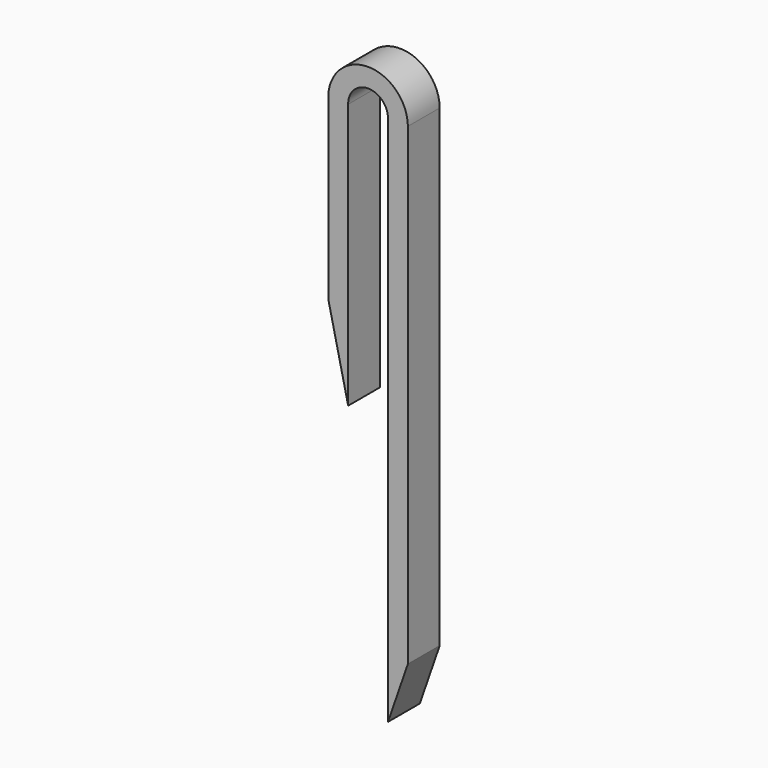
from build123d import *

# Parameters (mm, degrees)
F1_DEPTH = 3


with BuildPart() as f1:
    # F0 (on Front) → F1 (new body)
    with BuildSketch(Plane.XZ):
        with BuildLine():
            Line((1.5, 0), (1.5, -40))
            Line((1.5, -40), (3, -35.662841))
            Line((3, -35.662841), (3, -0.053545))
            Line((3, -0.053545), (3, 0))
            ThreePointArc((3, 0), (0, 2.973347), (-3, 0))
            Line((-3, 0), (-3, -0.053545))
            Line((-3, -0.053545), (-3, -13.406723))
            Line((-3, -13.406723), (-1.5, -20))
            Line((-1.5, -20), (-1.5, 0))
            ThreePointArc((-1.5, 0), (0, 1.538197), (1.5, 0))
        make_face()
    extrude(amount=F1_DEPTH)


solid = f1.part
